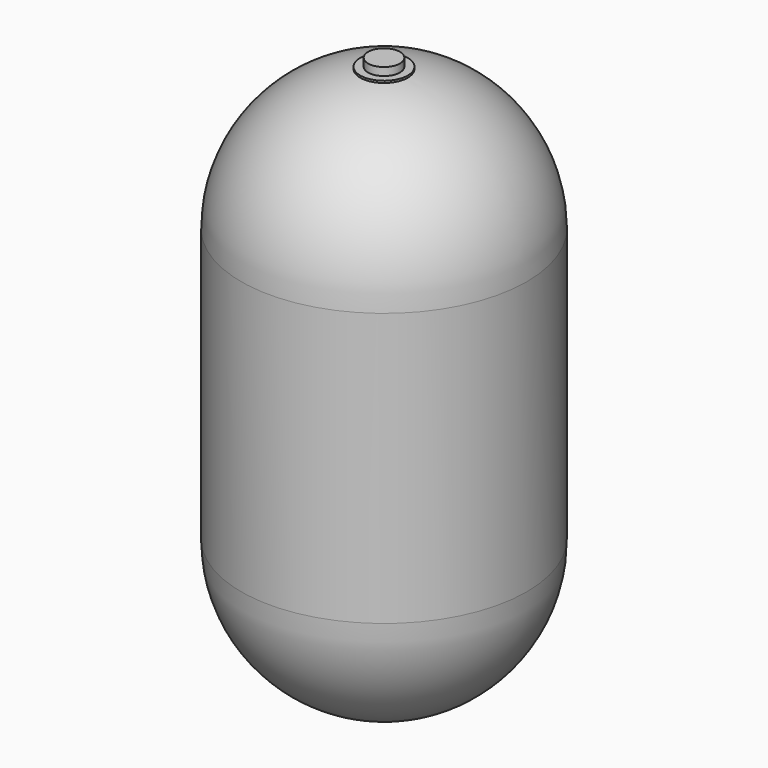
from build123d import *


with BuildPart() as f1:
    # F0 (on Front) → F1 (revolve)
    with BuildSketch(Plane.XZ):
        with BuildLine():
            Line((75, 0), (75, 6.294016))
            ThreePointArc((75, 6.294016), (343.693177, 159.526249), (450, 450))
            Line((450, 450), (450, 1310))
            ThreePointArc((450, 1310), (343.693177, 1600.473751), (75, 1753.705984))
            Line((75, 1753.705984), (75, 1760))
            Line((75, 1760), (50, 1760))
            Line((50, 1760), (50, 1785))
            Line((50, 1785), (0, 1785))
            Line((0, 1785), (0, 1760))
            Line((0, 1760), (0, 0))
            Line((0, 0), (0, -25))
            Line((0, -25), (50, -25))
            Line((50, -25), (50, 0))
            Line((50, 0), (75, 0))
        make_face()
    revolve(axis=Axis((0, 0, 880), (0, 0, -1)))


solid = f1.part
